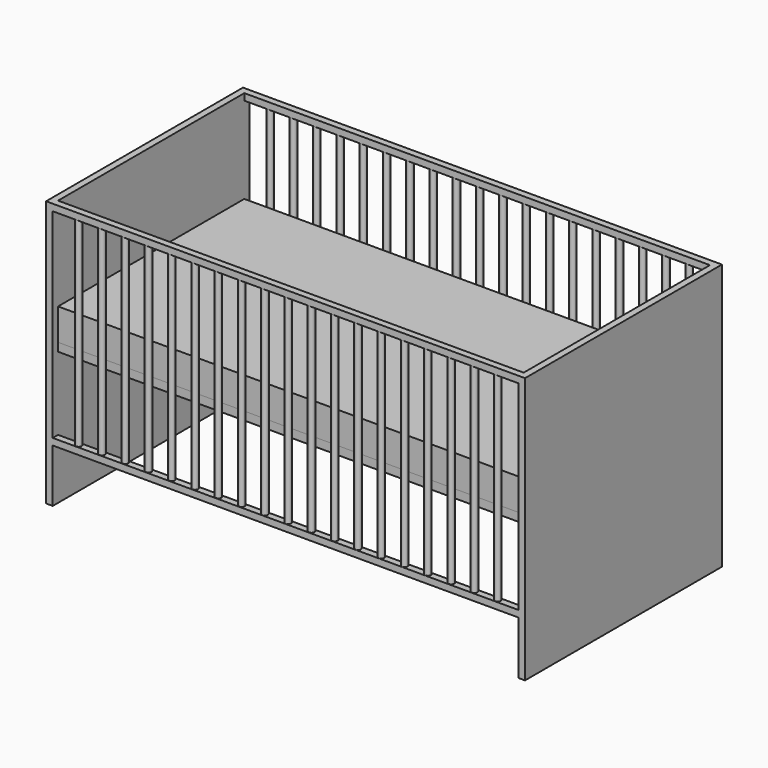
from build123d import *

# Parameters (mm, degrees)
F0_W          = 1400
F0_H          = 700
F0_W_2        = 1300
F0_H_2        = 600
F1_DEPTH      = 25
F3_DEPTH      = 400
F3_DEPTH_BACK = 400
F4_W          = 20
F4_H          = 20
F5_DEPTH      = 1400
F6_R          = 9
F7_DEPTH      = 600
F8_DEPTH      = 120
F9_DEPTH      = 95


with BuildPart() as f1:
    # F0 (on Top) → F1 (new body)
    with BuildSketch(Plane.XY):
        Rectangle(F0_W, F0_H)
        Rectangle(F0_W_2, F0_H_2, mode=Mode.SUBTRACT)
    extrude(amount=F1_DEPTH)

    # F2 (on face) → F3 (join, two sides)
    with BuildSketch(Plane(origin=(0, 0, 0), x_dir=(1, 0, 0), z_dir=(0, 0, -1))) as f3_sk:
        Polygon((-720, -370), (-700, -370), (-700, -350), (-700, 350), (-700, 370), (-720, 370), align=None)
        Polygon((700, 350), (700, -350), (700, -370), (720, -370), (720, 370), (700, 370), align=None)
    extrude(amount=F3_DEPTH)
    extrude(f3_sk.sketch, amount=-F3_DEPTH_BACK)

    # F4 (on face) → F5 (join, through all)
    with BuildSketch(Plane.YZ.offset(-700)):
        with Locations((-360, 390)):
            Rectangle(F4_W, F4_H)
        with Locations((360, 390)):
            Rectangle(F4_W, F4_H)
        with Locations((-360, -230)):
            Rectangle(F4_W, F4_H)
        with Locations((360, -230)):
            Rectangle(F4_W, F4_H)
    extrude(amount=F5_DEPTH)

    # F6 (on face) → F7 (join, through all)
    with BuildSketch(Plane.XY.offset(-220)):
        with Locations((630, -360)):
            Circle(F6_R)
        with Locations((560, -360)):
            Circle(F6_R)
        with Locations((490, -360)):
            Circle(F6_R)
        with Locations((420, -360)):
            Circle(F6_R)
        with Locations((350, -360)):
            Circle(F6_R)
        with Locations((280, -360)):
            Circle(F6_R)
        with Locations((210, -360)):
            Circle(F6_R)
        with Locations((140, -360)):
            Circle(F6_R)
        with Locations((70, -360)):
            Circle(F6_R)
        with Locations((0, -360)):
            Circle(F6_R)
        with Locations((-70, -360)):
            Circle(F6_R)
        with Locations((-140, -360)):
            Circle(F6_R)
        with Locations((-210, -360)):
            Circle(F6_R)
        with Locations((-280, -360)):
            Circle(F6_R)
        with Locations((-350, -360)):
            Circle(F6_R)
        with Locations((-420, -360)):
            Circle(F6_R)
        with Locations((-490, -360)):
            Circle(F6_R)
        with Locations((-560, -360)):
            Circle(F6_R)
        with Locations((-630, -360)):
            Circle(F6_R)
        with Locations((630, 360)):
            Circle(F6_R)
        with Locations((560, 360)):
            Circle(F6_R)
        with Locations((140, 360)):
            Circle(F6_R)
        with Locations((70, 360)):
            Circle(F6_R)
        with Locations((-420, 360)):
            Circle(F6_R)
        with Locations((0, 360)):
            Circle(F6_R)
        with Locations((-70, 360)):
            Circle(F6_R)
        with Locations((-140, 360)):
            Circle(F6_R)
        with Locations((-210, 360)):
            Circle(F6_R)
        with Locations((-280, 360)):
            Circle(F6_R)
        with Locations((-490, 360)):
            Circle(F6_R)
        with Locations((-560, 360)):
            Circle(F6_R)
        with Locations((-630, 360)):
            Circle(F6_R)
        with Locations((-350, 360)):
            Circle(F6_R)
        with Locations((490, 360)):
            Circle(F6_R)
        with Locations((420, 360)):
            Circle(F6_R)
        with Locations((350, 360)):
            Circle(F6_R)
        with Locations((280, 360)):
            Circle(F6_R)
        with Locations((210, 360)):
            Circle(F6_R)
    extrude(amount=F7_DEPTH)


with BuildPart() as f8:
    # F0 (on Top) → F8 (new body)
    with BuildSketch(Plane.XY):
        Rectangle(F0_W_2, F0_H_2)
    extrude(amount=F8_DEPTH)

    # F9 (add, through all): a face of the model
    f9_faces = [f1.part.faces().sort_by_distance(p)[0] for p in [
        (0, -334.3475241575, 25),
    ]]
    extrude(f9_faces, amount=F9_DEPTH)


solid = Compound([f1.part, f8.part])
